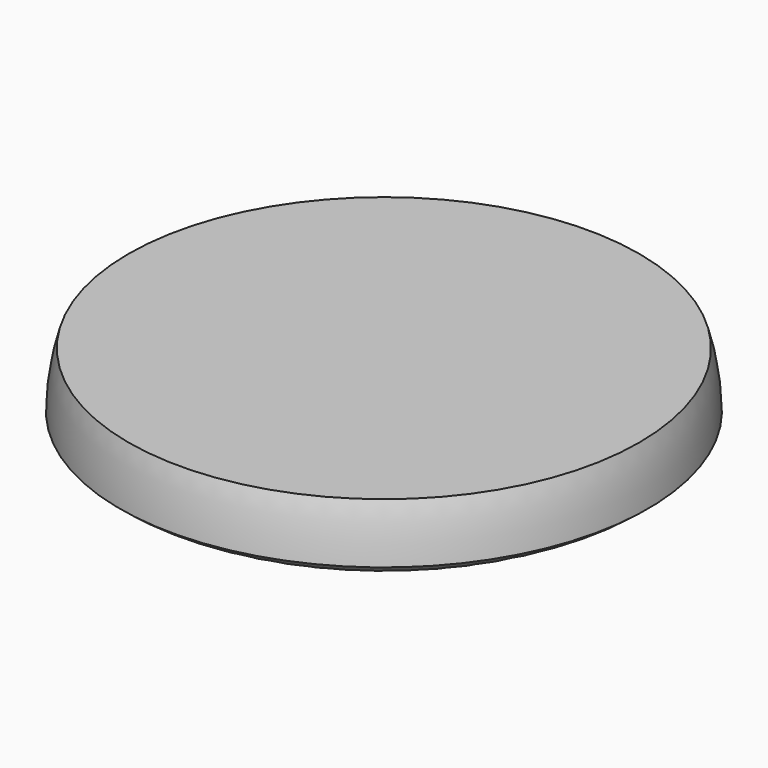
from build123d import *


with BuildPart() as f1:
    # F0 (on Front) → F1 (revolve)
    with BuildSketch(Plane.XZ):
        with BuildLine():
            Line((0, 0), (0, 13.7))
            Line((0, 13.7), (-45, 13.7))
            add(Edge.make_bspline(
                [(-45, 13.7), (-46.023301, 10.352933), (-46.367382, 7.697685), (-46.5, 3.9)],
                knots=[0, 0, 0, 0, 9.914131, 9.914131, 9.914131, 9.914131], degree=3))
            add(Edge.make_bspline(
                [(-46.5, 3.9), (-43.632104, 1.406976), (-40.935925, 0.562378), (-38.5, 0)],
                knots=[0, 0, 0, 0, 8.9, 8.9, 8.9, 8.9], degree=3))
            Line((-38.5, 0), (0, 0))
        make_face()
    revolve(axis=Axis((0, 0, 6.85), (0, 0, -1)))


solid = f1.part
